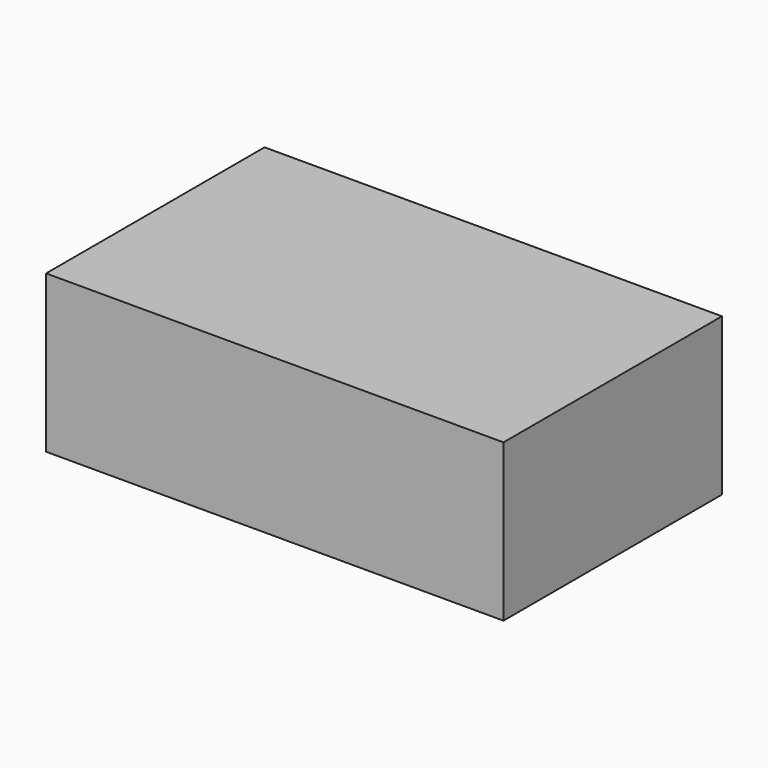
from build123d import *

# Parameters (mm, degrees)
F0_W     = 670
F0_H     = 400
F1_DEPTH = 230
F2_DEPTH = 230


with BuildPart() as f1:
    # F0 (on Top) → F1 (new body)
    with BuildSketch(Plane.XY):
        with Locations((0, 200)):
            Rectangle(F0_W, F0_H)
    extrude(amount=F1_DEPTH)


with BuildPart() as f2:
    # F0 (on Top) → F2 (new body)
    with BuildSketch(Plane.XY):
        with Locations((0, 200)):
            Rectangle(F0_W, F0_H)
    extrude(amount=F2_DEPTH)


solid = f1.part
